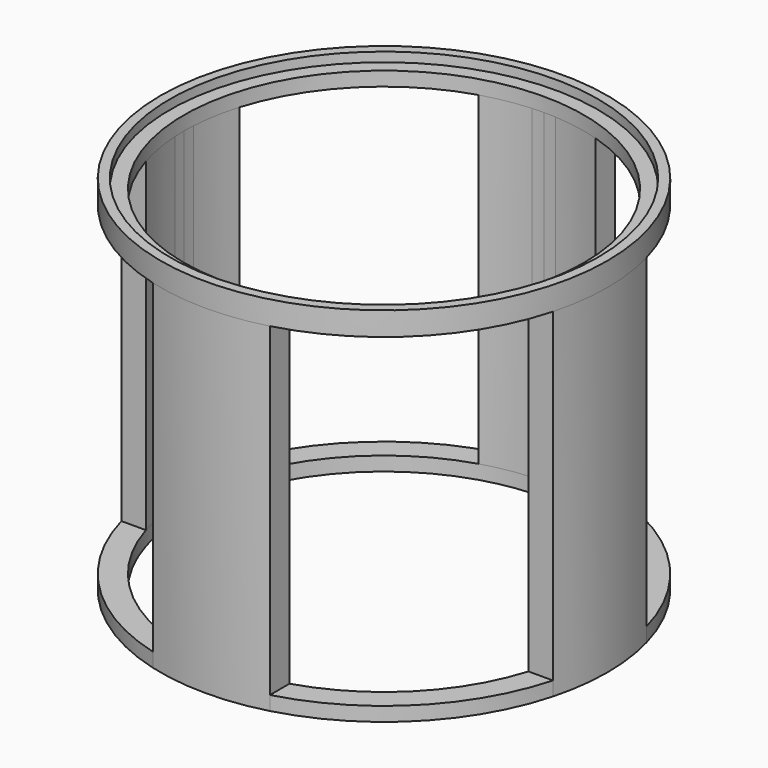
from build123d import *

# Parameters (mm, degrees)
F0_R     = 47.5
F0_R_2   = 42.5
F1_DEPTH = 3
F3_DEPTH = 72
F4_R     = 47.5
F4_R_2   = 42.5
F5_DEPTH = 3
F6_R     = 47.5
F6_R_2   = 45.5
F7_DEPTH = 2


with BuildPart() as f1:
    # F0 (on Top) → F1 (new body)
    with BuildSketch(Plane.XY):
        Circle(F0_R)
        Circle(F0_R_2, mode=Mode.SUBTRACT)
    extrude(amount=F1_DEPTH)

    # F2 (on Top) → F3 (join)
    with BuildSketch(Plane.XY):
        with BuildLine():
            Line((12.434256, 40.640365), (12.434256, 45.84364))
            ThreePointArc((12.434256, 45.84364), (0, 47.5), (-12.434256, 45.84364))
            Line((-12.434256, 45.84364), (-12.434256, 40.640365))
            ThreePointArc((-12.434256, 40.640365), (-7.520338, 41.82935), (-2.5, 42.426407))
            ThreePointArc((-2.5, 42.426407), (-1.250541, 42.481598), (0, 42.5))
            ThreePointArc((0, 42.5), (1.250541, 42.481598), (2.5, 42.426407))
            ThreePointArc((2.5, 42.426407), (7.520338, 41.82935), (12.434256, 40.640365))
        make_face()
        with BuildLine():
            Line((-40.640365, 12.434256), (-45.84364, 12.434256))
            ThreePointArc((-45.84364, 12.434256), (-47.5, 0), (-45.84364, -12.434256))
            Line((-45.84364, -12.434256), (-40.640365, -12.434256))
            ThreePointArc((-40.640365, -12.434256), (-41.82935, -7.520338), (-42.426407, -2.5))
            ThreePointArc((-42.426407, -2.5), (-42.481598, -1.250541), (-42.5, 0))
            ThreePointArc((-42.5, 0), (-42.481598, 1.250541), (-42.426407, 2.5))
            ThreePointArc((-42.426407, 2.5), (-41.82935, 7.520338), (-40.640365, 12.434256))
        make_face()
        with BuildLine():
            Line((-12.434256, -40.640365), (-12.434256, -45.84364))
            ThreePointArc((-12.434256, -45.84364), (0, -47.5), (12.434256, -45.84364))
            Line((12.434256, -45.84364), (12.434256, -40.640365))
            ThreePointArc((12.434256, -40.640365), (7.520338, -41.82935), (2.5, -42.426407))
            ThreePointArc((2.5, -42.426407), (1.250541, -42.481598), (0, -42.5))
            ThreePointArc((0, -42.5), (-1.250541, -42.481598), (-2.5, -42.426407))
            ThreePointArc((-2.5, -42.426407), (-7.520338, -41.82935), (-12.434256, -40.640365))
        make_face()
        with BuildLine():
            Line((40.640365, -12.434256), (45.84364, -12.434256))
            ThreePointArc((45.84364, -12.434256), (47.5, 0), (45.84364, 12.434256))
            Line((45.84364, 12.434256), (40.640365, 12.434256))
            ThreePointArc((40.640365, 12.434256), (41.82935, 7.520338), (42.426407, 2.5))
            ThreePointArc((42.426407, 2.5), (42.481598, 1.250541), (42.5, 0))
            ThreePointArc((42.5, 0), (42.481598, -1.250541), (42.426407, -2.5))
            ThreePointArc((42.426407, -2.5), (41.82935, -7.520338), (40.640365, -12.434256))
        make_face()
    extrude(amount=F3_DEPTH)

    # F4 (on face) → F5 (join)
    with BuildSketch(Plane.XY.offset(72)):
        Circle(F4_R)
        Circle(F4_R_2, mode=Mode.SUBTRACT)
    extrude(amount=F5_DEPTH)

    # F6 (on face) → F7 (join)
    with BuildSketch(Plane.XY.offset(75)):
        Circle(F6_R)
        Circle(F6_R_2, mode=Mode.SUBTRACT)
    extrude(amount=F7_DEPTH)


solid = f1.part
